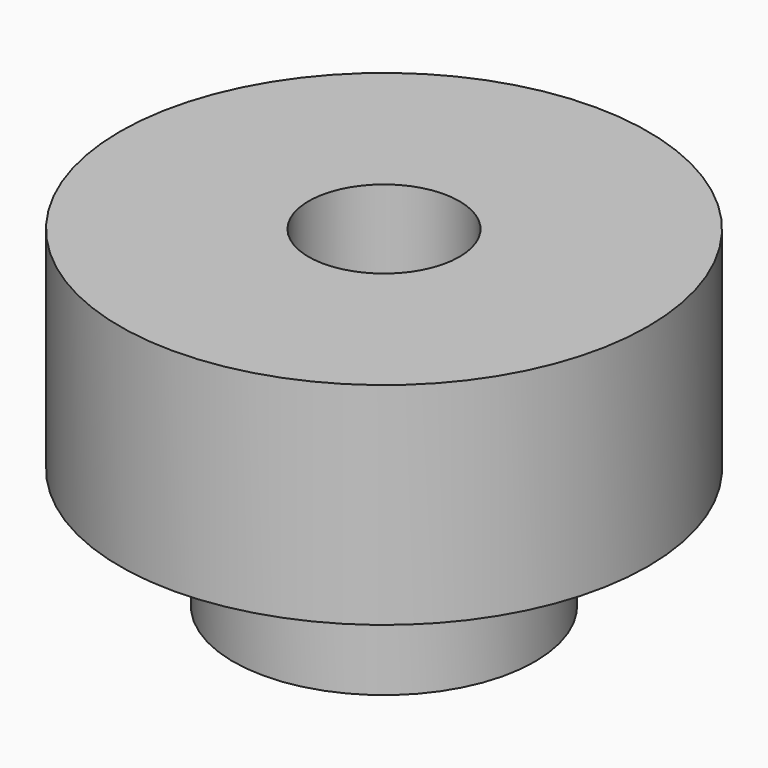
from build123d import *

# Parameters (mm, degrees)
F0_R     = 10
F1_DEPTH = 8
F2_R     = 17.5
F3_DEPTH = 14
F4_R     = 5
F5_DEPTH = 40


with BuildPart() as f1:
    # F0 (on Top) → F1 (new body)
    with BuildSketch(Plane.XY):
        Circle(F0_R)
    extrude(amount=F1_DEPTH)

    # F2 (on face) → F3 (join)
    with BuildSketch(Plane.XY.offset(8)):
        Circle(F2_R)
    extrude(amount=F3_DEPTH)

    # F4 (on face) → F5 (cut)
    with BuildSketch(Plane.XY.offset(22)):
        Circle(F4_R)
        Circle(F4_R)
    extrude(amount=-F5_DEPTH, mode=Mode.SUBTRACT)


solid = f1.part
